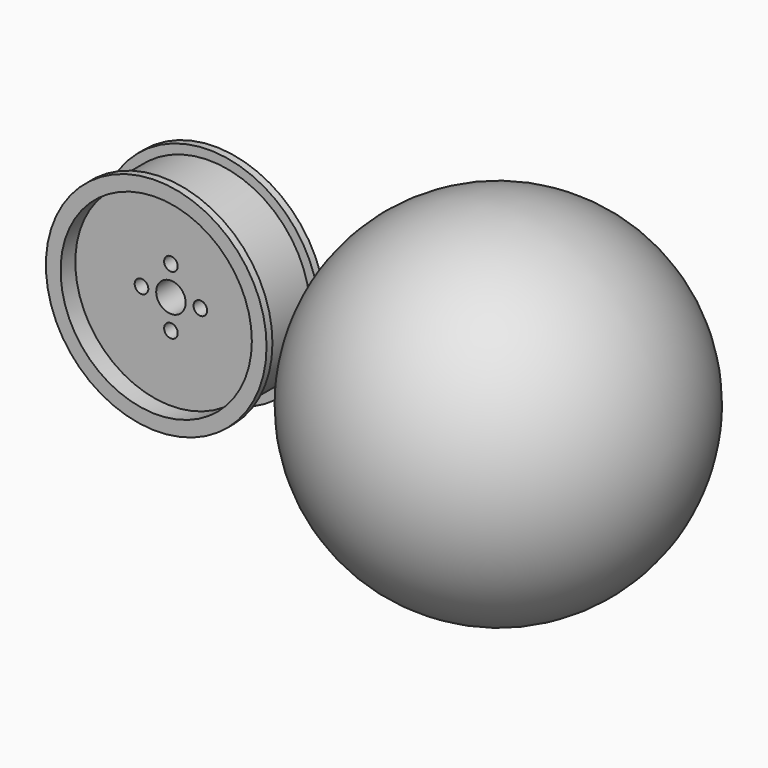
from build123d import *

# Parameters (mm, degrees)
F3_R      = 26
F3_R_2    = 1.85
F3_R_3    = 4
F4_DEPTH  = 5
F6_R      = 27.5
F6_R_2    = 26
F7_DEPTH  = 10
F8_R      = 30
F8_R_2    = 27.5
F9_DEPTH  = 2
F10_R     = 30
F10_R_2   = 27.5
F11_DEPTH = 2


with BuildPart() as f4:
    # F3 (on face) → F4 (new body, symmetric)
    with BuildSketch(Plane.XZ):
        with Locations((-52.5, 0)):
            Circle(F3_R)
        with Locations((-52.5, -8)):
            Circle(F3_R_2, mode=Mode.SUBTRACT)
        with Locations((-60.5, 0)):
            Circle(F3_R_2, mode=Mode.SUBTRACT)
        with Locations((-52.5, 0)):
            Circle(F3_R_3, mode=Mode.SUBTRACT)
        with Locations((-44.5, 0)):
            Circle(F3_R_2, mode=Mode.SUBTRACT)
        with Locations((-52.5, 8)):
            Circle(F3_R_2, mode=Mode.SUBTRACT)
    extrude(amount=F4_DEPTH, both=True)

    # F6 (on Front) → F7 (join, symmetric)
    with BuildSketch(Plane.XZ):
        with Locations((-52.5, 0)):
            Circle(F6_R)
        with Locations((-52.5, 0)):
            Circle(F6_R_2, mode=Mode.SUBTRACT)
    extrude(amount=F7_DEPTH, both=True)

    # F8 (on face) → F9 (join)
    with BuildSketch(Plane.XZ.offset(10)):
        with Locations((-52.5, 0)):
            Circle(F8_R)
        with Locations((-52.5, 0)):
            Circle(F8_R_2, mode=Mode.SUBTRACT)
    extrude(amount=-F9_DEPTH)

    # F10 (on face) → F11 (join)
    with BuildSketch(Plane(origin=(0, 10, 0), x_dir=(-1, 0, 0), z_dir=(0, 1, 0))):
        with Locations((52.5, 0)):
            Circle(F10_R)
        with Locations((52.5, 0)):
            Circle(F10_R_2, mode=Mode.SUBTRACT)
    extrude(amount=-F11_DEPTH)


with BuildPart() as f12:
    # F1 (on Front) → F12 (revolve)
    with BuildSketch(Plane.XZ):
        with BuildLine():
            Line((-15, 0), (0, 0))
            Line((0, 0), (80, 0))
            ThreePointArc((80, 0), (32.5, 47.5), (-15, 0))
        make_face()
    revolve(axis=Axis((40, 0, 0), (1, 0, 0)))


solid = Compound([f4.part, f12.part])
